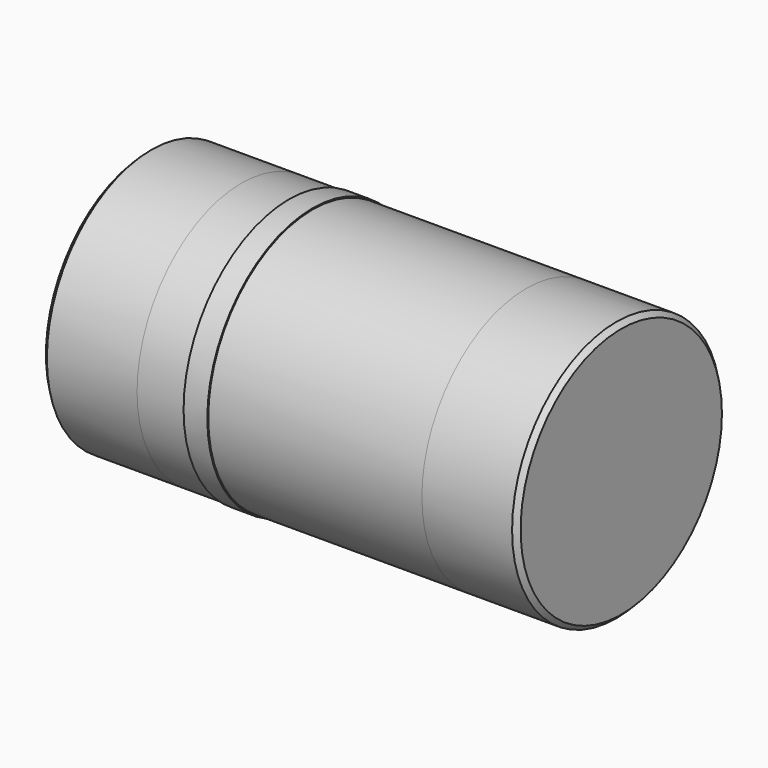
from build123d import *

# Parameters (mm, degrees)
SKETCH_R        = 0.55
PAD_DEPTH       = 0.4
CHAMFER_SIZE    = 0.02
SKETCH001_R     = 0.55
PAD001_DEPTH    = 1.2
SKETCH002_R     = 0.55
PAD002_DEPTH    = 0.4
CHAMFER001_SIZE = 0.02
SKETCH003_R     = 0.555
PAD003_DEPTH    = 0.1


with BuildPart() as body:
    # Sketch → Pad (new body)
    with BuildSketch(Plane.YZ):
        with Locations((0, 0.55)):
            Circle(SKETCH_R)
    extrude(amount=PAD_DEPTH)

    # Chamfer
    chamfer_edges = [body.edges().sort_by_distance(p)[0] for p in [
        (0, -0.55, 0.55),
    ]]
    chamfer(chamfer_edges, length=CHAMFER_SIZE)


with BuildPart() as body001:
    # Sketch001 → Pad001 (new body)
    with BuildSketch(Plane.YZ):
        with Locations((0, 0.55)):
            Circle(SKETCH001_R)
    extrude(amount=PAD001_DEPTH)


with BuildPart() as body001_1:
    # Body001 placement: moved
    add(body001.part.moved(Location((0.4, 0, 0))))


with BuildPart() as body002:
    # Sketch002 → Pad002 (new body)
    with BuildSketch(Plane.YZ):
        with Locations((0, 0.55)):
            Circle(SKETCH002_R)
    extrude(amount=PAD002_DEPTH)

    # Chamfer001
    chamfer001_edges = [body002.edges().sort_by_distance(p)[0] for p in [
        (0.4, -0.55, 0.55),
    ]]
    chamfer(chamfer001_edges, length=CHAMFER001_SIZE)


with BuildPart() as body002_1:
    # Body002 placement: moved
    add(body002.part.moved(Location((1.6, 0, 0))))


with BuildPart() as body003:
    # Sketch003 → Pad003 (new body)
    with BuildSketch(Plane.YZ):
        with Locations((0, 0.55)):
            Circle(SKETCH003_R)
    extrude(amount=PAD003_DEPTH)


with BuildPart() as body003_1:
    # Body003 placement: moved
    add(body003.part.moved(Location((0.6, 0, 0))))


solid = Compound([body.part, body001_1.part, body002_1.part, body003_1.part])
